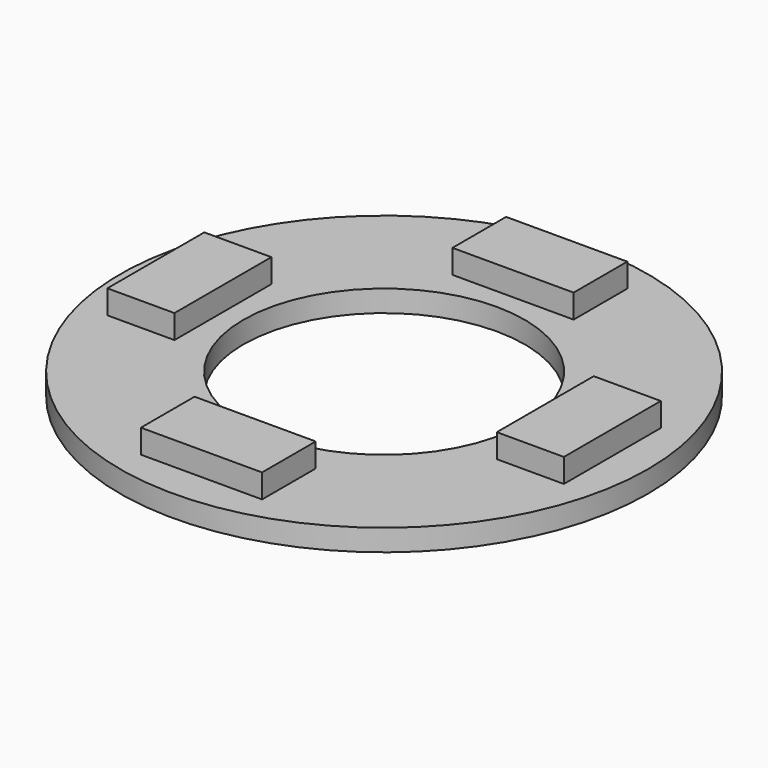
from build123d import *

# Parameters (mm, degrees)
F0_R     = 12.2
F0_R_2   = 6.5
F1_DEPTH = 1
F3_W     = 5.6
F3_H     = 3.1
F3_W_2   = 3.1
F3_H_2   = 5.6
F4_DEPTH = 1.1


with BuildPart() as f1:
    # F0 (on Top) → F1 (new body)
    with BuildSketch(Plane.XY):
        Circle(F0_R)
        Circle(F0_R_2, mode=Mode.SUBTRACT)
    extrude(amount=F1_DEPTH)

    # F3 (on offset) → F4 (join)
    with BuildSketch(Plane.XY.offset(1)):
        with Locations((0, 9)):
            Rectangle(F3_W, F3_H)
        with Locations((9, 0)):
            Rectangle(F3_W_2, F3_H_2)
        with Locations((0, -9)):
            Rectangle(F3_W, F3_H)
        with Locations((-9, 0)):
            Rectangle(F3_W_2, F3_H_2)
    extrude(amount=F4_DEPTH)


solid = f1.part
